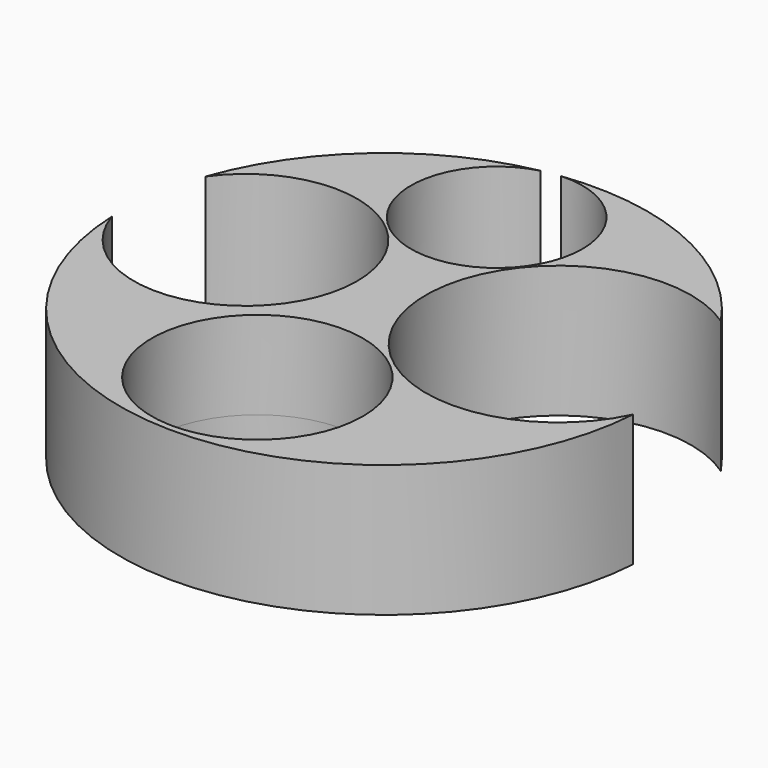
from build123d import *

# Parameters (mm, degrees)
F0_R     = 76.1923930789
F1_DEPTH = 12.7
F2_R     = 30.5006565041
F2_R_2   = 1.4862391827
F3_DEPTH = 12.701
F4_DEPTH = 25.4
F5_DEPTH = 25.4
F6_DEPTH = 25.4
F7_DEPTH = 25.4


with BuildPart() as f1:
    # F0 (on Top) → F1 (new body)
    with BuildSketch(Plane.XY):
        Circle(F0_R)
    extrude(amount=F1_DEPTH)

    # F2 (on face) → F3 (cut, through all)
    with BuildSketch(Plane.XY.offset(12.7)):
        with Locations((-1.4862391827, -43.8670478761)):
            Circle(F2_R)
        with Locations((0, -43.8670478761)):
            Circle(F2_R_2, mode=Mode.SUBTRACT)
        with BuildLine():
            ThreePointArc((76.1923930789, 0), (72.8249793386, 22.4009630914), (63.0203918555, 42.8218515884))
            ThreePointArc((63.0203918555, 42.8218515884), (4.4295199426, 1.2009612876), (76.0198799285, -5.1243164166))
            ThreePointArc((76.0198799285, -5.1243164166), (76.1492525781, -2.5636097365), (76.1923930789, 0))
        make_face()
        with BuildLine():
            ThreePointArc((16.6140991318, 50.8624613285), (8.8970664681, 68.830007636), (-9.4466365709, 75.6045092609))
            ThreePointArc((-9.4466365709, 75.6045092609), (-12.0713018803, 75.2300766582), (-14.6813511871, 74.7645550405))
            ThreePointArc((-14.6813511871, 74.7645550405), (-23.1993361612, 31.1729000429), (16.6140991318, 50.8624613285))
        make_face()
        with BuildLine():
            ThreePointArc((-71.8429908792, 25.374503436), (-75.3423273306, 11.349646492), (-76.1299647651, -3.0837036101))
            ThreePointArc((-76.1299647651, -3.0837036101), (-40.4419002943, -24.9844594479), (-13.2413656339, 6.8496726453))
            ThreePointArc((-13.2413656339, 6.8496726453), (-35.7559759242, 37.5796247979), (-71.8429908792, 25.374503436))
        make_face()
        with BuildLine():
            ThreePointArc((-14.6813511871, 74.7645550405), (-12.0713018803, 75.2300766582), (-9.4466365709, 75.6045092609))
            ThreePointArc((-9.4466365709, 75.6045092609), (-12.0865262133, 75.3249568749), (-14.6813511871, 74.7645550405))
        make_face()
        with BuildLine():
            ThreePointArc((-71.8429908792, 25.374503436), (-77.33938953, 11.6504860173), (-76.1299647651, -3.0837036101))
            ThreePointArc((-76.1299647651, -3.0837036101), (-75.3423273306, 11.349646492), (-71.8429908792, 25.374503436))
        make_face()
        with BuildLine():
            ThreePointArc((76.0198799285, -5.1243164166), (78.7566482722, 2.8459379332), (79.6838716591, 11.2218027934))
            ThreePointArc((79.6838716591, 11.2218027934), (75.2627955479, 29.0840160032), (63.0203918555, 42.8218515884))
            ThreePointArc((63.0203918555, 42.8218515884), (72.8249793386, 22.4009630914), (76.1923930789, 0))
            ThreePointArc((76.1923930789, 0), (76.1492525781, -2.5636097365), (76.0198799285, -5.1243164166))
        make_face()
    extrude(amount=-F3_DEPTH, mode=Mode.SUBTRACT)

    # F4 (add): a face of the model
    f4_faces = [f1.faces().sort_by_distance(p)[0] for p in [
        (-2.154905566, -6.975298751, 12.7),
    ]]
    extrude(f4_faces, amount=F4_DEPTH)

    # F5 (cut): a face of the model
    f5_faces = [f1.faces().sort_by_distance(p)[0] for p in [
        (-2.154905566, -6.975298751, 38.1),
    ]]
    extrude(f5_faces, amount=-F5_DEPTH, mode=Mode.SUBTRACT)

    # F6 (cut): a face of the model
    f6_faces = [f1.faces().sort_by_distance(p)[0] for p in [
        (0, -43.8670478761, 12.7),
    ]]
    extrude(f6_faces, amount=-F6_DEPTH, mode=Mode.SUBTRACT)

    # F7 (add): a face of the model
    f7_faces = [f1.faces().sort_by_distance(p)[0] for p in [
        (-2.154905566, -6.975298751, 12.7),
    ]]
    extrude(f7_faces, amount=F7_DEPTH)


solid = f1.part
